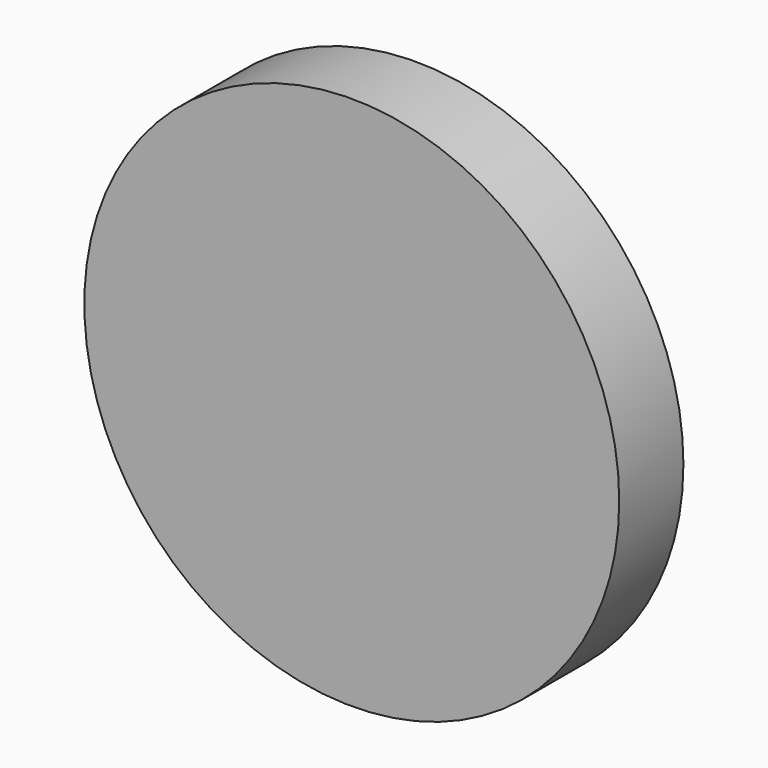
from build123d import *

# Parameters (mm, degrees)
F0_R     = 100
F1_DEPTH = 30
F3_DEPTH = 30


with BuildPart() as f1:
    # F0 (on Front) → F1 (new body)
    with BuildSketch(Plane.XZ):
        Circle(F0_R)
    extrude(amount=F1_DEPTH)

    # F2 (on face) → F3 (join)
    with BuildSketch(Plane.XZ.offset(30)):
        Polygon((-5, 81.833887), (0, 81.833887), (5, 81.833887), (6.828297, 87.184819), (13.5, 97.833887), (0, 97.833887), (-13.5, 97.833887), (-6.828297, 87.184819), align=None)
    extrude(amount=-F3_DEPTH)


solid = f1.part
